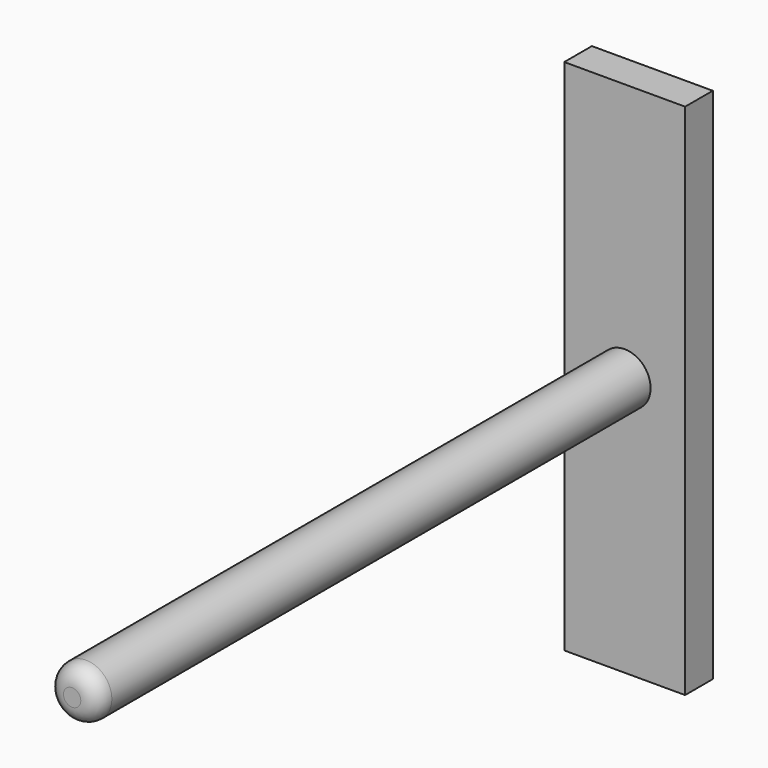
from build123d import *

# Parameters (mm, degrees)
F0_W     = 7
F0_H     = 30
F1_DEPTH = 2
F2_R     = 1.5
F3_DEPTH = 40
F4_R     = 1


with BuildPart() as f1:
    # F0 (on Front) → F1 (new body)
    with BuildSketch(Plane.XZ):
        Rectangle(F0_W, F0_H)
    extrude(amount=F1_DEPTH)

    # F2 (on face) → F3 (join)
    with BuildSketch(Plane.XZ.offset(2)):
        Circle(F2_R)
    extrude(amount=F3_DEPTH)

    # F4
    f4_edges = [f1.edges().sort_by_distance(p)[0] for p in [
        (-1.5, -42, 0),
    ]]
    fillet(f4_edges, radius=F4_R)


solid = f1.part
